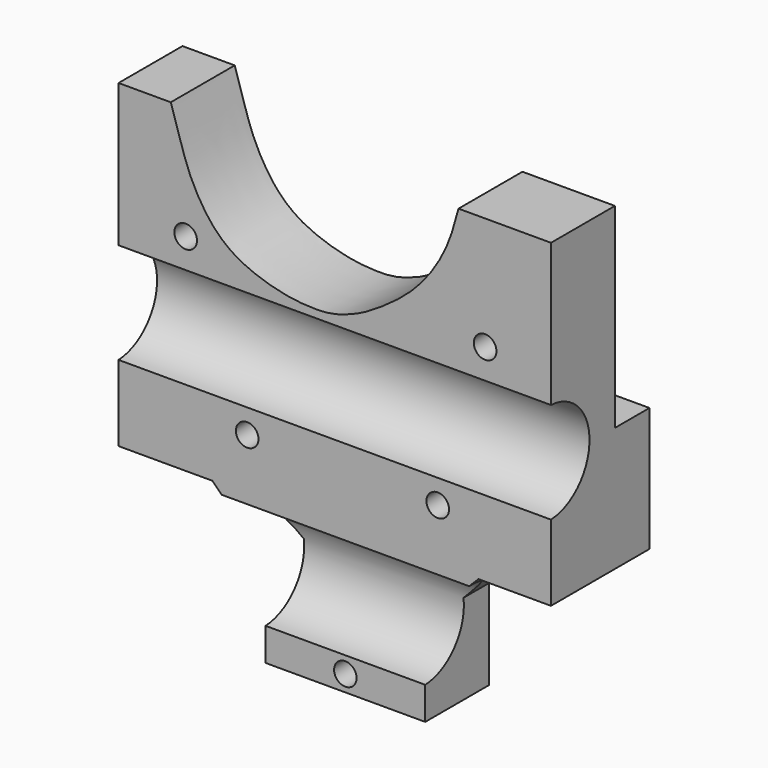
from build123d import *

# Parameters (mm, degrees)
SKETCH_R        = 1.700573
SKETCH_R_2      = 1.696194
SKETCH_R_3      = 1.70239
SKETCH_R_4      = 1.697657
SKETCH_R_5      = 1.689437
PAD_DEPTH       = 18.5
SKETCH001_R     = 7.590372
SKETCH001_R_2   = 7.603755
POCKET_DEPTH    = 97
SKETCH002_R     = 3
HOLE_DEPTH      = 6.5
HOLE_TIPS_R     = 3
SKETCH003_R     = 1.411783
SKETCH003_R_2   = 1.401773
SKETCH003_R_3   = 1.398933
SKETCH003_R_4   = 1.401651
POCKET001_DEPTH = 6.5


with BuildPart() as part:
    # Sketch → Pad (new body)
    with BuildSketch(Plane.XZ):
        with BuildLine():
            Line((-26.2415, 121.015), (-34.090878, 121.015))
            Line((-34.090878, 121.015), (-34.090878, 72.973053))
            Line((-34.090878, 72.973053), (-20.00001, 72.973053))
            Line((-20.00001, 72.973053), (-12.000051, 64.973244))
            Line((-12.000051, 64.973244), (-12.000051, 51.472549))
            Line((-12.000051, 51.472549), (11.999999, 51.472549))
            Line((11.999999, 51.472549), (11.999999, 64.973244))
            Line((11.999999, 64.973244), (19.999996, 72.973244))
            Line((19.999996, 72.973244), (30.894337, 72.973244))
            Line((30.894337, 72.973244), (30.894337, 121.006))
            Line((30.894337, 121.006), (16.999, 121.006))
            add(Edge.make_bspline(
                [(-26.2415, 121.015), (-25.3823, 118.371), (-24.0265, 113.55), (-21.9777, 109.453), (-19.8085, 106.44), (-17.6392, 104.542), (-15.6507, 103.306), (-12.8788, 102.131), (-9.89209, 101.286), (-7.31753, 100.857), (-5.45812, 100.743), (-3.34125, 100.686), (-1.23869, 101.058), (0.205921, 101.515), (2.33709, 102.373), (5.1405, 104.018), (8.55125, 106.485), (11.0972, 108.888), (13.4603, 111.97), (15.3483, 115.446), (16.2081, 118.028), (16.999, 121.006)],
                knots=[0, 0, 0, 0, 0.052632, 0.105263, 0.157895, 0.210526, 0.263158, 0.315789, 0.368421, 0.421053, 0.473684, 0.526316, 0.578947, 0.631579, 0.684211, 0.736842, 0.789474, 0.842105, 0.894737, 0.947368, 1, 1, 1, 1], degree=3))
        make_face()
        with Locations((-24.000988, 103.999319)):
            Circle(SKETCH_R, mode=Mode.SUBTRACT)
        with Locations((-14.759804, 80.742604)):
            Circle(SKETCH_R_2, mode=Mode.SUBTRACT)
        with Locations((20.997655, 104.000841)):
            Circle(SKETCH_R_3, mode=Mode.SUBTRACT)
        with Locations((13.875785, 80.75203)):
            Circle(SKETCH_R_4, mode=Mode.SUBTRACT)
        with Locations((-0.007881, 53.916821)):
            Circle(SKETCH_R_5, mode=Mode.SUBTRACT)
    extrude(amount=PAD_DEPTH)

    # Sketch001 → Pocket (cut)
    with BuildSketch(Plane.YZ.offset(-37)):
        with Locations((-18.852952, 91.961696)):
            Circle(SKETCH001_R)
        with Locations((-18.845096, 63.978218)):
            Circle(SKETCH001_R_2)
        Polygon((-6.51958, 51.28841), (-6.51958, 64.967888), (0.037609, 64.967888), (0.037609, 73.101757), (0.037609, 91.632729), (-6.491428, 91.632729), (-6.491428, 124.613274), (19.66001, 122.879639), (13.066299, 46.559637), align=None)
    extrude(amount=POCKET_DEPTH, mode=Mode.SUBTRACT)

    # Sketch002 → Hole (cut)
    with BuildSketch(Plane.XZ):
        with Locations((-14.760921, 80.740323)):
            Circle(SKETCH002_R)
        with Locations((13.868655, 80.743376)):
            Circle(SKETCH002_R)
    extrude(amount=HOLE_DEPTH, mode=Mode.SUBTRACT)

    # Hole tips → Hole tip 1 section 0
    with BuildSketch(Plane.XZ.offset(6.5), mode=Mode.PRIVATE) as hole_tip_1_s0:
        with Locations((-14.760921, 80.740323)):
            Circle(HOLE_TIPS_R)
    loft([hole_tip_1_s0.sketch, Vertex(-14.760921, -8.302582, 80.740323)], mode=Mode.SUBTRACT)

    # Hole tips → Hole tip 2 section 0
    with BuildSketch(Plane.XZ.offset(6.5), mode=Mode.PRIVATE) as hole_tip_2_s0:
        with Locations((13.868655, 80.743376)):
            Circle(HOLE_TIPS_R)
    loft([hole_tip_2_s0.sketch, Vertex(13.868655, -8.302582, 80.743376)], mode=Mode.SUBTRACT)

    # Sketch003 → Pocket001 (cut)
    with BuildSketch(Plane.XZ):
        with Locations((14.989951, 73.452021)):
            Circle(SKETCH003_R)
        with Locations((-14.994772, 73.45466)):
            Circle(SKETCH003_R_2)
        with Locations((-19.003859, 86.995442)):
            Circle(SKETCH003_R_3)
        with Locations((19.000666, 87.003413)):
            Circle(SKETCH003_R_4)
    extrude(amount=POCKET001_DEPTH, mode=Mode.SUBTRACT)


solid = part.part
